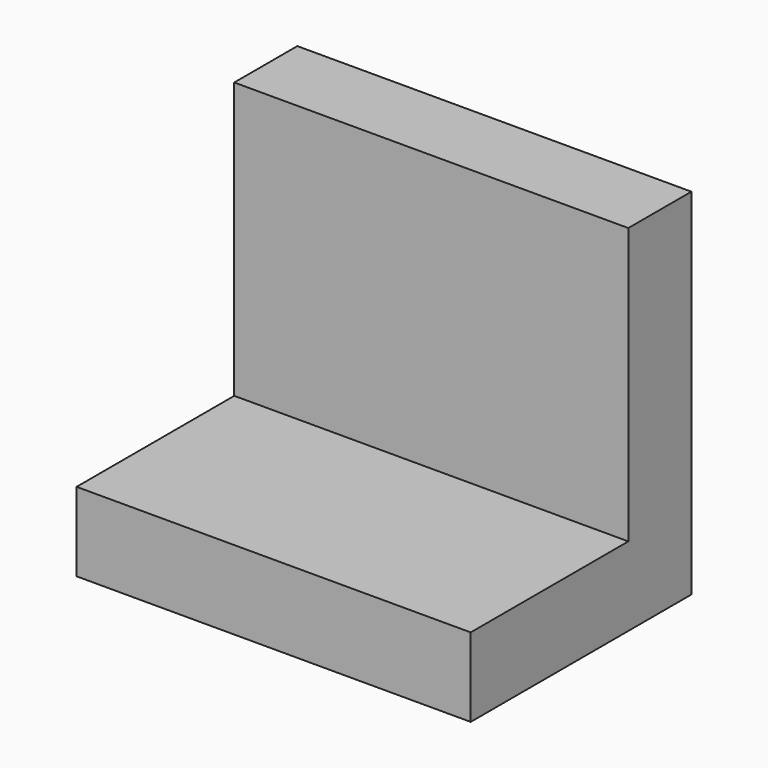
from build123d import *

# Parameters (mm, degrees)
F1_DEPTH      = 50
F1_DEPTH_BACK = 50


with BuildPart() as f1:
    # F0 (on Right) → F1 (new body, two sides)
    with BuildSketch(Plane.YZ) as f1_sk:
        Polygon((0, 20), (0, 0), (70, 0), (70, 90), (50, 90), (50, 20), align=None)
    extrude(amount=F1_DEPTH)
    extrude(f1_sk.sketch, amount=-F1_DEPTH_BACK)


solid = f1.part
